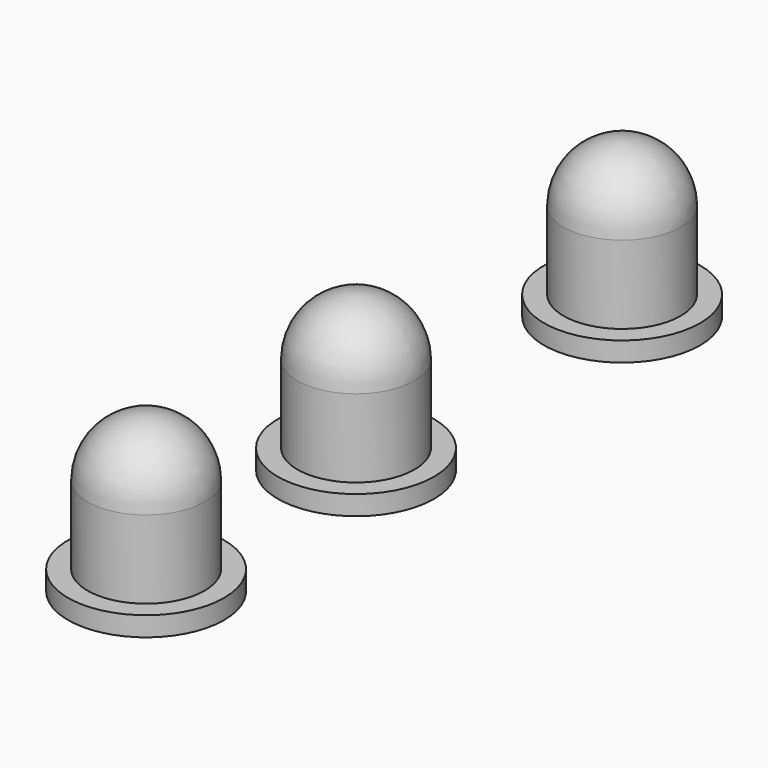
from build123d import *


with BuildPart() as f1:
    # F0 (on Front) → F1 (revolve)
    with BuildSketch(Plane.XZ):
        with BuildLine():
            Line((0, 4), (0, 0))
            Line((0, 0), (1.5, 0))
            Line((1.5, 0), (2, 0))
            Line((2, 0), (2, 0.5))
            Line((2, 0.5), (1.5, 0.5))
            Line((1.5, 0.5), (1.5, 2.5))
            ThreePointArc((1.5, 2.5), (1.06066, 3.56066), (0, 4))
        make_face()
    revolve(axis=Axis((0, 0, 2.533613), (0, 0, -1)))


with BuildPart() as f2_1:
    # F2: copy of F1
    add(f1.part.moved(Location((0, 6.72, 0))))


with BuildPart() as f3_1:
    # F3: copy of F2_1
    add(f2_1.part.moved(Location((0, 8.52, 0))))


solid = Compound([f1.part, f2_1.part, f3_1.part])
